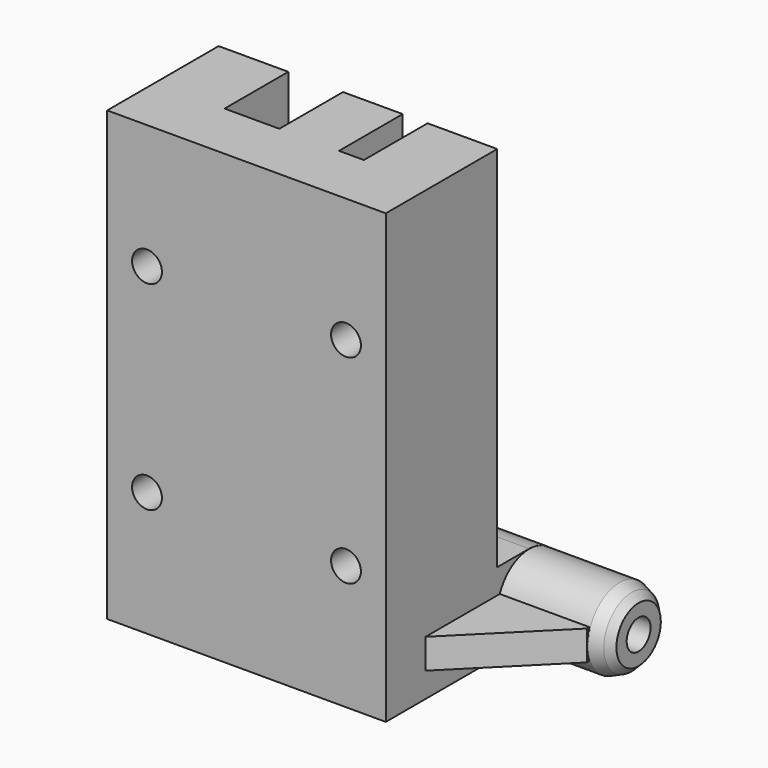
from build123d import *

# Parameters (mm, degrees)
SKETCH008_W     = 28
SKETCH008_H     = 45
SKETCH008_R     = 1.5
PAD003_DEPTH    = 6
SKETCH009_W     = 7
SKETCH009_H     = 45
SKETCH009_R     = 1.5
SKETCH009_W_2   = 6
SKETCH009_H_2   = 10.5
SKETCH009_H_3   = 8
PAD004_DEPTH    = 8
FILLET002_R     = 2.9
SKETCH011_W     = 7
SKETCH011_H     = 8
PAD005_DEPTH    = 8
FILLET003_R     = 3.99
SKETCH012_R     = 3.99
PAD006_DEPTH    = 11
SKETCH013_R     = 3.99
PAD007_DEPTH    = 11
SKETCH014_R     = 1.5
POCKET001_DEPTH = 52
CHAMFER001_SIZE = 1.2
SKETCH015_W     = 3
SKETCH015_H     = 10
PAD008_DEPTH    = 9
SKETCH016_W     = 3
SKETCH016_H     = 10
PAD009_DEPTH    = 9
CHAMFER002_SIZE = 8.9999
CHAMFER003_SIZE = 0.7
POCKET002_DEPTH = 3
POCKET003_DEPTH = 3
SKETCH019_R     = 1.5
POCKET004_DEPTH = 15
SKETCH020_R     = 3.2
POCKET005_DEPTH = 3
CHAMFER004_SIZE = 2


with BuildPart() as part:
    # Sketch008 → Pad003 (new body)
    with BuildSketch(Plane.XZ):
        with Locations((14, 22.5)):
            Rectangle(SKETCH008_W, SKETCH008_H)
        with Locations((4, 32.5)):
            Circle(SKETCH008_R, mode=Mode.SUBTRACT)
        with Locations((24, 32.5)):
            Circle(SKETCH008_R, mode=Mode.SUBTRACT)
        with Locations((4, 12.5)):
            Circle(SKETCH008_R, mode=Mode.SUBTRACT)
        with Locations((24, 12.5)):
            Circle(SKETCH008_R, mode=Mode.SUBTRACT)
    extrude(amount=PAD003_DEPTH)

    # Sketch009 (on Face9 of Pad003) → Pad004 (join)
    with BuildSketch(Plane(origin=(0, 0, 0), x_dir=(1, 0, 0), z_dir=(0, 1, 0))):
        with Locations((3.5, -22.5)):
            Rectangle(SKETCH009_W, SKETCH009_H)
        with Locations((4, -12.5)):
            Circle(SKETCH009_R, mode=Mode.SUBTRACT)
        with Locations((4, -32.5)):
            Circle(SKETCH009_R, mode=Mode.SUBTRACT)
        with Locations((24.5, -22.5)):
            Rectangle(SKETCH009_W, SKETCH009_H)
        with Locations((24, -12.5)):
            Circle(SKETCH009_R, mode=Mode.SUBTRACT)
        with Locations((24, -32.5)):
            Circle(SKETCH009_R, mode=Mode.SUBTRACT)
        with Locations((15.5, -5.25)):
            Rectangle(SKETCH009_W_2, SKETCH009_H_2)
        with Locations((15.5, -16.5)):
            Rectangle(SKETCH009_W_2, SKETCH009_H_3)
        with Locations((15.5, -28.5)):
            Rectangle(SKETCH009_W_2, SKETCH009_H_3)
        with Locations((15.5, -39.75)):
            Rectangle(SKETCH009_W_2, SKETCH009_H_2)
    extrude(amount=PAD004_DEPTH)

    # Fillet002
    fillet002_edges = [part.edges().sort_by_distance(p)[0] for p in [
        (12.5, 4, 24.5),
        (18.5, 4, 24.5),
        (12.5, 4, 32.5),
        (18.5, 4, 34.5),
        (18.5, 4, 20.5),
        (12.5, 4, 20.5),
        (12.5, 4, 12.5),
        (18.5, 4, 10.5),
    ]]
    fillet(fillet002_edges, radius=FILLET002_R)

    # Sketch011 (on Face36 of Fillet002) → Pad005 (join)
    with BuildSketch(Plane(origin=(0, 8, 0), x_dir=(1, 0, 0), z_dir=(0, 1, 0))):
        with Locations((3.5, -4)):
            Rectangle(SKETCH011_W, SKETCH011_H)
        with Locations((24.5, -4)):
            Rectangle(SKETCH011_W, SKETCH011_H)
    extrude(amount=PAD005_DEPTH)

    # Fillet003
    fillet003_edges = [part.edges().sort_by_distance(p)[0] for p in [
        (3.5, 16, 8),
        (3.5, 16, 0),
        (24.5, 16, 0),
        (24.5, 16, 8),
    ]]
    fillet(fillet003_edges, radius=FILLET003_R)

    # Sketch012 (on Face8 of Fillet003) → Pad006 (join)
    with BuildSketch(Plane(origin=(0, 0, 0), x_dir=(0, 0, -1), z_dir=(-1, 0, 0))):
        with Locations((-3.99, -12.01)):
            Circle(SKETCH012_R)
    extrude(amount=PAD006_DEPTH)

    # Sketch013 (on Face68 of Pad006) → Pad007 (join)
    with BuildSketch(Plane(origin=(28, 0, 0), x_dir=(0, 0, 1), z_dir=(1, 0, 0))):
        with Locations((3.99, -12.01)):
            Circle(SKETCH013_R)
    extrude(amount=PAD007_DEPTH)

    # Sketch014 (on Face70 of Pad007) → Pocket001 (cut)
    with BuildSketch(Plane(origin=(39, 0, 0), x_dir=(0, 0, 1), z_dir=(1, 0, 0))):
        with Locations((3.99, -12.01)):
            Circle(SKETCH014_R)
    extrude(amount=-POCKET001_DEPTH, mode=Mode.SUBTRACT)

    # Chamfer001
    chamfer001_edges = [part.edges().sort_by_distance(p)[0] for p in [
        (-11, 12.01, 7.98),
        (39, 12.01, 0),
    ]]
    chamfer(chamfer001_edges, length=CHAMFER001_SIZE)

    # Sketch015 (on Face10 of Chamfer001) → Pad008 (join)
    with BuildSketch(Plane(origin=(0, 0, 0), x_dir=(0, 0, -1), z_dir=(-1, 0, 0))):
        with Locations((-4, -4)):
            Rectangle(SKETCH015_W, SKETCH015_H)
    extrude(amount=PAD008_DEPTH)

    # Sketch016 (on Face62 of Pad008) → Pad009 (join)
    with BuildSketch(Plane(origin=(28, 0, 0), x_dir=(0, 0, 1), z_dir=(1, 0, 0))):
        with Locations((4, -4)):
            Rectangle(SKETCH016_W, SKETCH016_H)
    extrude(amount=PAD009_DEPTH)

    # Chamfer002
    chamfer002_edges = [part.edges().sort_by_distance(p)[0] for p in [
        (37, -1, 4),
        (-9, -1, 4),
    ]]
    chamfer(chamfer002_edges, length=CHAMFER002_SIZE)

    # Chamfer003
    chamfer003_edges = [part.edges().sort_by_distance(p)[0] for p in [
        (-9.8, 12.01, 7.98),
        (37.8, 12.01, 0),
    ]]
    chamfer(chamfer003_edges, length=CHAMFER003_SIZE)

    # Sketch017 (on Face75 of Chamfer003) → Pocket002 (cut)
    with BuildSketch(Plane(origin=(21, 0, 0), x_dir=(0, 0, -1), z_dir=(-1, 0, 0))):
        Polygon((-2.49, -14.608076), (-0.99, -12.01), (-2.49, -9.411924), (-5.49, -9.411924), (-6.99, -12.01), (-5.49, -14.608076), align=None)
    extrude(amount=-POCKET002_DEPTH, mode=Mode.SUBTRACT)

    # Sketch018 (on Face16 of Pocket002) → Pocket003 (cut)
    with BuildSketch(Plane(origin=(7, 0, 0), x_dir=(0, 0, 1), z_dir=(1, 0, 0))):
        Polygon((5.49, -14.608076), (6.99, -12.01), (5.49, -9.411924), (2.49, -9.411924), (0.99, -12.01), (2.49, -14.608076), align=None)
    extrude(amount=-POCKET003_DEPTH, mode=Mode.SUBTRACT)

    # Sketch019 (on Face22 of Pocket003) → Pocket004 (cut)
    with BuildSketch(Plane(origin=(0, 0, 0), x_dir=(1, 0, 0), z_dir=(0, 0, -1))):
        with Locations((15.5, 3)):
            Circle(SKETCH019_R)
    extrude(amount=-POCKET004_DEPTH, mode=Mode.SUBTRACT)

    # Sketch020 (on Face32 of Pocket004) → Pocket005 (cut)
    with BuildSketch(Plane(origin=(0, 8, 0), x_dir=(1, 0, 0), z_dir=(0, 1, 0))):
        with Locations((4, -12.5)):
            Circle(SKETCH020_R)
        with Locations((4, -32.5)):
            Circle(SKETCH020_R)
        with Locations((24, -32.5)):
            Circle(SKETCH020_R)
        with Locations((24, -12.5)):
            Circle(SKETCH020_R)
    extrude(amount=-POCKET005_DEPTH, mode=Mode.SUBTRACT)

    # Chamfer004
    chamfer004_edges = [part.edges().sort_by_distance(p)[0] for p in [
        (7, 6.5, 11.386447),
        (7, 6.5, 13.613553),
        (21, 6.5, 11.386447),
        (7, 6.5, 31.386447),
        (21, 6.5, 31.386447),
        (7, 6.5, 33.613553),
        (21, 6.5, 33.613553),
        (21, 6.5, 13.613553),
    ]]
    chamfer(chamfer004_edges, length=CHAMFER004_SIZE)


with BuildPart() as part_1:
    # Body006 placement: moved
    add(part.part.moved(Location((-14, 27.5, 3))))


solid = part_1.part
